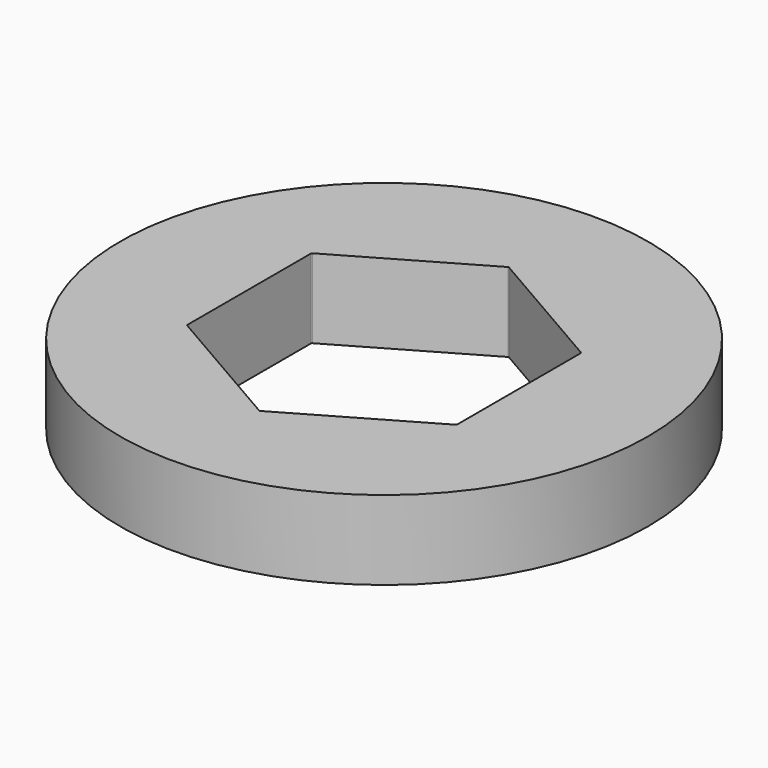
from build123d import *

# Parameters (mm, degrees)
F0_R     = 12.7
F1_DEPTH = 3.81
F2_R     = 0.0508


with BuildPart() as f1:
    # F0 (on Top) → F1 (new body)
    with BuildSketch(Plane.XY):
        Circle(F0_R)
        Polygon((0, 7.49366), (6.4897, 3.74683), (6.4897, -3.74683), (0, -7.49366), (-6.4897, -3.74683), (-6.4897, 3.74683), align=None, mode=Mode.SUBTRACT)
    extrude(amount=F1_DEPTH)

    # F2
    f2_edges = [f1.edges().sort_by_distance(p)[0] for p in [
        (-6.4897, -3.74683, 1.905),
        (-6.4897, 3.74683, 1.905),
        (0, 7.49366, 1.905),
        (6.4897, 3.74683, 1.905),
        (6.4897, -3.74683, 1.905),
        (0, -7.49366, 1.905),
    ]]
    fillet(f2_edges, radius=F2_R)


solid = f1.part
